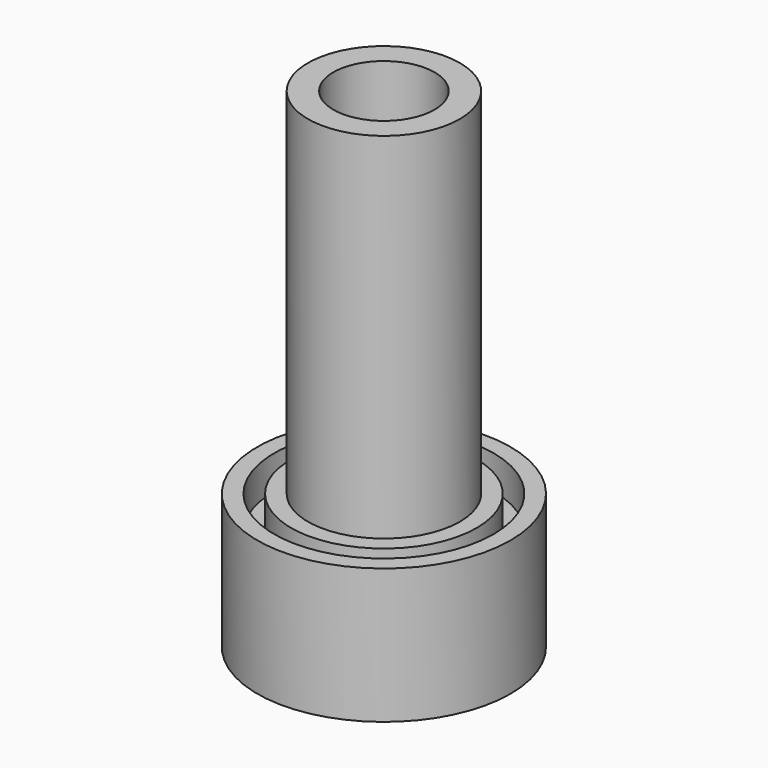
from build123d import *

# Parameters (mm, degrees)
SKETCH_R        = 7.5
PAD_DEPTH       = 8
SKETCH001_R     = 4.5
PAD001_DEPTH    = 21
SKETCH002_R     = 6.5
SKETCH002_R_2   = 5.5
POCKET_DEPTH    = 2
SKETCH003_R     = 3
POCKET001_DEPTH = 25
POCKET002_DEPTH = 5


with BuildPart() as part:
    # Sketch → Pad (new body)
    with BuildSketch(Plane.XY):
        Circle(SKETCH_R)
    extrude(amount=PAD_DEPTH)

    # Sketch001 (on Face3 of Pad) → Pad001 (join)
    with BuildSketch(Plane.XY.offset(8)):
        Circle(SKETCH001_R)
    extrude(amount=PAD001_DEPTH)

    # Sketch002 (on Face3 of Pad001) → Pocket (cut)
    with BuildSketch(Plane.XY.offset(8)):
        Circle(SKETCH002_R)
        Circle(SKETCH002_R_2, mode=Mode.SUBTRACT)
    extrude(amount=-POCKET_DEPTH, mode=Mode.SUBTRACT)

    # Sketch003 (on Face9 of Pocket) → Pocket001 (cut)
    with BuildSketch(Plane.XY.offset(29)):
        Circle(SKETCH003_R)
    extrude(amount=-POCKET001_DEPTH, mode=Mode.SUBTRACT)

    # Sketch004 (on Face2 of Pocket001) → Pocket002 (cut)
    with BuildSketch(Plane(origin=(0, 0, 0), x_dir=(1, 0, 0), z_dir=(0, 0, -1))):
        Polygon((3.660254, -3.660254), (5, 1.339746), (1.339746, 5), (-3.660254, 3.660254), (-5, -1.339746), (-1.339746, -5), align=None)
    extrude(amount=-POCKET002_DEPTH, mode=Mode.SUBTRACT)


solid = part.part
